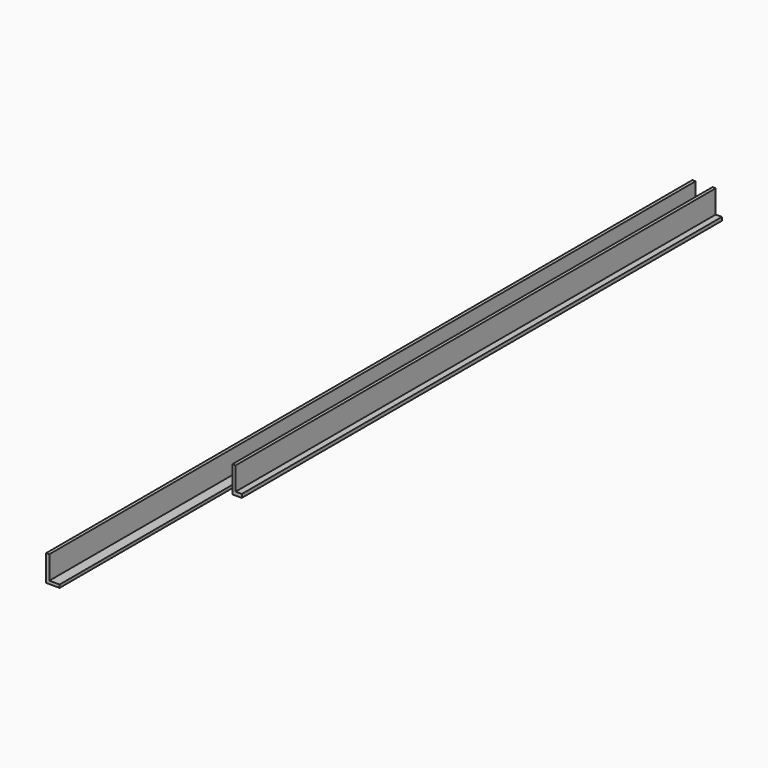
from build123d import *

# Parameters (mm, degrees)
F0_W     = 11.356227
F0_H     = 3.303187
F1_DEPTH = 889
F3_DEPTH = 660.4


with BuildPart() as f1:
    # F0 (on Front) → F1 (new body)
    with BuildSketch(Plane.XZ):
        Polygon((-3.525533, 0), (0, 0), (0, 3.303187), (0, 28.889779), (-3.525533, 28.889779), align=None)
        with Locations((5.678113, 1.651593)):
            Rectangle(F0_W, F0_H)
    extrude(amount=F1_DEPTH)


with BuildPart() as f3:
    # F2 (on Front) → F3 (new body)
    with BuildSketch(Plane.XZ):
        Polygon((18.606978, 29.281506), (18.606978, 0), (28.987709, 0), (28.987709, 3.819327), (22.132508, 3.819327), (22.132508, 29.281506), align=None)
    extrude(amount=F3_DEPTH)


solid = Compound([f1.part, f3.part])
